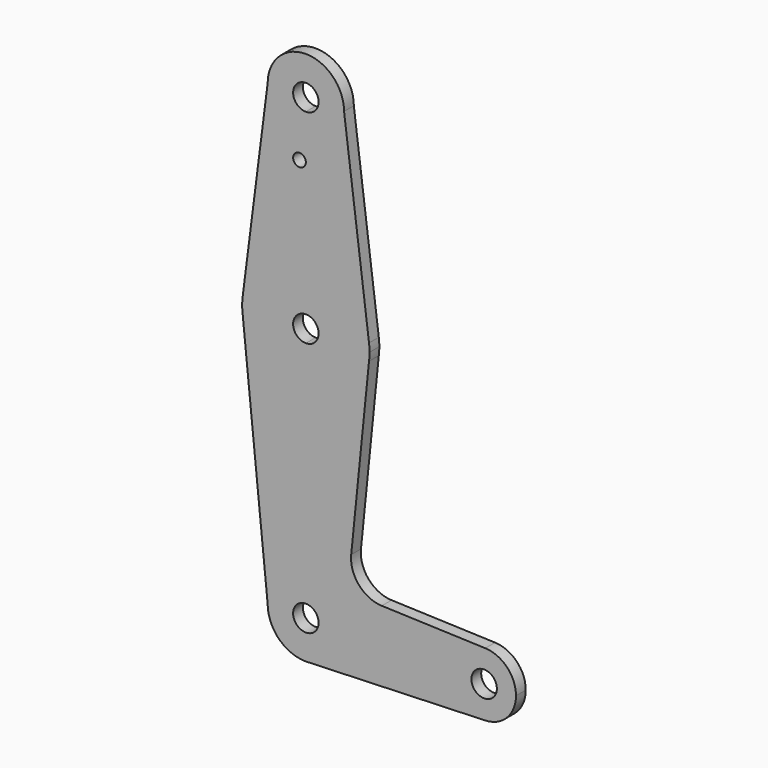
from build123d import *

# Parameters (mm, degrees)
F0_R     = 1.5875
F1_DEPTH = 3.048


with BuildPart() as f1:
    # F0 (on Front) → F1 (new body)
    with BuildSketch(Plane.XZ):
        with BuildLine():
            Line((0, 60.325), (0, 47.625))
            ThreePointArc((0, 47.625), (10.4912828548, 51.5857812233), (15.7474569047, 61.4917106696))
            ThreePointArc((15.7474569047, 61.4917106696), (15.8430821396, 62.4938323604), (15.875, 63.5))
            ThreePointArc((15.875, 63.5), (15.8430821396, 64.5061676396), (15.7474569047, 65.5082893304))
            ThreePointArc((15.7474569047, 65.5082893304), (10.4912828548, 75.4142187767), (0, 79.375))
            Line((0, 79.375), (0, 66.675))
            ThreePointArc((0, 66.675), (2.2450640303, 65.7450640303), (3.175, 63.5))
            ThreePointArc((3.175, 63.5), (2.2450640303, 61.2549359697), (0, 60.325))
        make_face()
        with BuildLine():
            ThreePointArc((-15.7474569047, 61.4917106696), (-10.4912828548, 51.5857812233), (0, 47.625))
            Line((0, 47.625), (0, 60.325))
            ThreePointArc((0, 60.325), (-3.175, 63.5), (0, 66.675))
            Line((0, 66.675), (0, 79.375))
            ThreePointArc((0, 79.375), (-10.4912828548, 75.4142187767), (-15.7474569047, 65.5082893304))
            ThreePointArc((-15.7474569047, 65.5082893304), (-15.875, 63.5), (-15.7474569047, 61.4917106696))
        make_face()
        with BuildLine():
            Line((0, 9.525), (0, 3.175))
            ThreePointArc((0, 3.175), (2.2450640303, 2.2450640303), (3.175, 0))
            Line((3.175, 0), (9.525, 0))
            ThreePointArc((9.525, 0), (6.7351920908, 6.7351920908), (0, 9.525))
        make_face()
        with BuildLine():
            ThreePointArc((3.175, 0), (-2.2450640303, -2.2450640303), (0, 3.175))
            Line((0, 3.175), (0, 9.525))
            ThreePointArc((0, 9.525), (-6.7351920908, 6.7351920908), (-9.525, 0))
            ThreePointArc((-9.525, 0), (-6.7351920908, -6.7351920908), (0, -9.525))
            Line((0, -9.525), (0.6773435479, -9.500885786))
            ThreePointArc((0.6773435479, -9.500885786), (6.9705567315, -6.4912990883), (9.525, 0))
            Line((9.525, 0), (3.175, 0))
        make_face()
        with BuildLine():
            Line((0, 47.625), (0, 9.525))
            ThreePointArc((0, 9.525), (6.7351920908, 6.7351920908), (9.525, 0))
            Line((9.525, 0), (36.5125, 0))
            ThreePointArc((36.5125, 0), (38.9380895153, 5.7116327839), (44.7324052746, 7.9324746146))
            Line((44.7324052746, 7.9324746146), (18.9325755062, 8.850978406))
            ThreePointArc((18.9325755062, 8.850978406), (13.2236717952, 11.5707758879), (11.305626823, 17.5965524694))
            Line((11.305626823, 17.5965524694), (15.7474569047, 61.4917106696))
            ThreePointArc((15.7474569047, 61.4917106696), (10.4912828548, 51.5857812233), (0, 47.625))
        make_face()
        with BuildLine():
            Line((36.5125, 0), (9.525, 0))
            ThreePointArc((9.525, 0), (6.9705567315, -6.4912990883), (0.6773435479, -9.500885786))
            Line((0.6773435479, -9.500885786), (44.7324052746, -7.9324746146))
            ThreePointArc((44.7324052746, -7.9324746146), (38.9380895153, -5.7116327839), (36.5125, 0))
        make_face()
        with BuildLine():
            ThreePointArc((44.7324052746, 7.9324746146), (38.9380895153, 5.7116327839), (36.5125, 0))
            ThreePointArc((36.5125, 0), (38.9380895153, -5.7116327839), (44.7324052746, -7.9324746146))
            ThreePointArc((44.7324052746, -7.9324746146), (50.1616327839, -5.5119104847), (52.3875, 0))
            ThreePointArc((52.3875, 0), (50.1616327839, 5.5119104847), (44.7324052746, 7.9324746146))
        make_face()
        with BuildLine():
            ThreePointArc((47.625, 0), (44.45, -3.175), (41.275, 0))
            ThreePointArc((41.275, 0), (44.45, 3.175), (47.625, 0))
        make_face(mode=Mode.SUBTRACT)
        with BuildLine():
            ThreePointArc((-9.525, 0), (-6.7351920908, 6.7351920908), (0, 9.525))
            Line((0, 9.525), (0, 47.625))
            ThreePointArc((0, 47.625), (-10.4912828548, 51.5857812233), (-15.7474569047, 61.4917106696))
            Line((-15.7474569047, 61.4917106696), (-9.525, 0))
        make_face()
        with BuildLine():
            Line((-9.525, 114.3), (-15.7474569047, 65.5082893304))
            ThreePointArc((-15.7474569047, 65.5082893304), (-10.4912828548, 75.4142187767), (0, 79.375))
            Line((0, 79.375), (0, 100.0252))
            Line((0, 100.0252), (0, 104.775))
            ThreePointArc((0, 104.775), (-6.7351920908, 107.5648079092), (-9.525, 114.3))
        make_face()
        with Locations((-1.5875, 100.0252)):
            Circle(F0_R, mode=Mode.SUBTRACT)
        with BuildLine():
            Line((0, 100.0252), (0, 79.375))
            ThreePointArc((0, 79.375), (10.4912828548, 75.4142187767), (15.7474569047, 65.5082893304))
            Line((15.7474569047, 65.5082893304), (9.525, 114.3))
            ThreePointArc((9.525, 114.3), (6.7351920908, 107.5648079092), (0, 104.775))
            Line((0, 104.775), (0, 100.0252))
        make_face()
        with BuildLine():
            ThreePointArc((9.525, 114.3), (0, 123.825), (-9.525, 114.3))
            ThreePointArc((-9.525, 114.3), (-6.7351920908, 107.5648079092), (0, 104.775))
            ThreePointArc((0, 104.775), (6.7351920908, 107.5648079092), (9.525, 114.3))
        make_face()
        with BuildLine():
            ThreePointArc((3.175, 114.3), (2.2450640303, 112.0549359697), (0, 111.125))
            ThreePointArc((0, 111.125), (-2.2450640303, 116.5450640303), (3.175, 114.3))
        make_face(mode=Mode.SUBTRACT)
    extrude(amount=F1_DEPTH)


solid = f1.part
